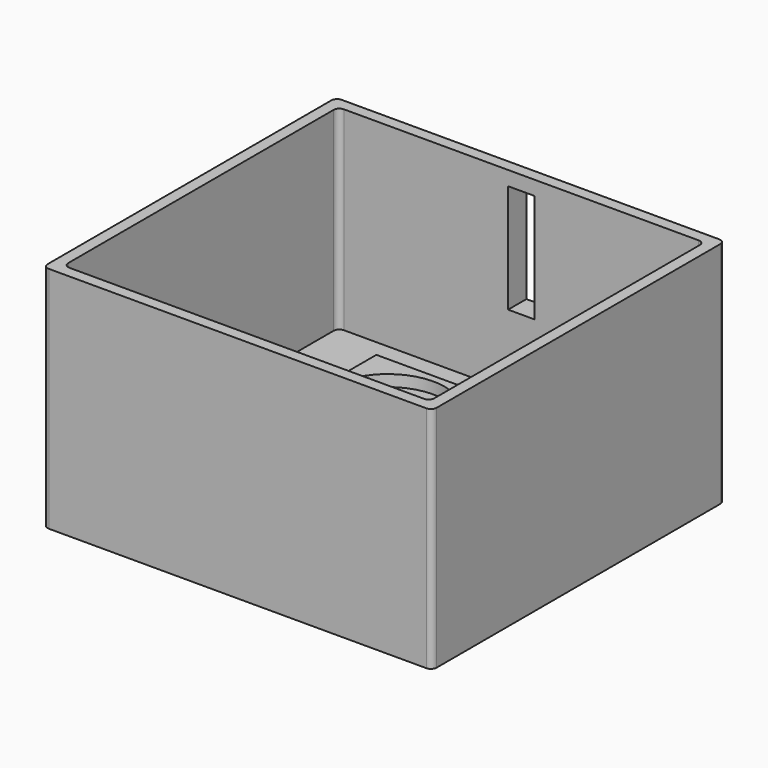
from build123d import *

# Parameters (mm, degrees)
F0_W      = 170
F0_H      = 160
F1_DEPTH  = 100
F2_W      = 160
F2_H      = 150
F3_DEPTH  = 85
F4_W      = 14.732
F4_H      = 50
F5_DEPTH  = 5
F6_W      = 11.5
F6_H      = 47.5
F7_DEPTH  = 10
F8_R      = 2.5
F9_W      = 55
F9_H      = 55
F10_DEPTH = 25
F11_R     = 25
F12_DEPTH = 5
F14_D     = 8


with BuildPart() as f1:
    # F0 (on Top) → F1 (new body)
    with BuildSketch(Plane.XY):
        Rectangle(F0_W, F0_H)
    extrude(amount=F1_DEPTH)

    # F2 (on face) → F3 (cut)
    with BuildSketch(Plane.XY.offset(100)):
        Rectangle(F2_W, F2_H)
    extrude(amount=-F3_DEPTH, mode=Mode.SUBTRACT)

    # F4 (on face) → F5 (join)
    with BuildSketch(Plane(origin=(0, 80, 0), x_dir=(-1, 0, 0), z_dir=(0, 1, 0))):
        with Locations((0, 70)):
            Rectangle(F4_W, F4_H)
    extrude(amount=F5_DEPTH)

    # F6 (on face) → F7 (cut, through all)
    with BuildSketch(Plane(origin=(0, 85, 0), x_dir=(-1, 0, 0), z_dir=(0, 1, 0))):
        with Locations((0, 70)):
            Rectangle(F6_W, F6_H)
    extrude(amount=-F7_DEPTH, mode=Mode.SUBTRACT)

    # F8
    f8_edges = [f1.edges().sort_by_distance(p)[0] for p in [
        (85, -80, 50),
        (-85, -80, 50),
        (85, 80, 50),
        (-85, 80, 50),
        (80, 75, 57.5),
        (-80, 75, 57.5),
        (-80, -75, 57.5),
        (80, -75, 57.5),
    ]]
    fillet(f8_edges, radius=F8_R)

    # F9 (on face) → F10 (join)
    with BuildSketch(Plane.XY.offset(15)):
        with Locations((0, 2.7)):
            Rectangle(F9_W, F9_H)
    extrude(amount=F10_DEPTH)

    # F11 (on face) → F12 (cut)
    with BuildSketch(Plane.XY.offset(40)):
        with Locations((0, 2)):
            Circle(F11_R)
    extrude(amount=-F12_DEPTH, mode=Mode.SUBTRACT)

    # F14 (through all)
    with Locations(Plane(origin=(0, 0, 0), x_dir=(1, 0, 0), z_dir=(0, 0, -1))):
        with Locations((-50, 50), (50, 50), (50, -50), (-50, -50)):
            Hole(F14_D / 2)


solid = f1.part
